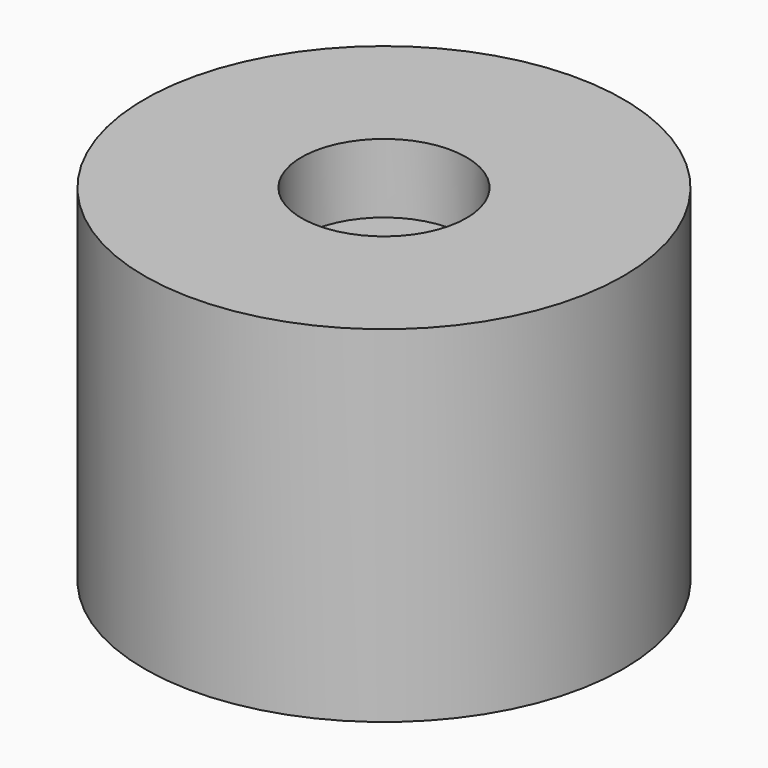
from build123d import *

# Parameters (mm, degrees)
SKETCH136_R     = 9
PAD081_DEPTH    = 13
POCKET045_DEPTH = 8
SKETCH138_R     = 3.1
POCKET046_DEPTH = 2.6
SKETCH139_R     = 1.75
POCKET047_DEPTH = 9.001


with BuildPart() as part:
    # Sketch136 → Pad081 (new body)
    with BuildSketch(Plane.XY):
        Circle(SKETCH136_R)
    extrude(amount=PAD081_DEPTH)

    # Sketch137 → Pocket045 (cut)
    with BuildSketch(Plane.XY):
        with BuildLine():
            Line((-3.152776, 2.850001), (-6.25, 2.850001))
            Line((-6.25, 2.850001), (-6.25, -2.850001))
            Line((-6.25, -2.850001), (-3.152776, -2.850001))
            ThreePointArc((-3.152776, -2.850001), (4.25, 0), (-3.152776, 2.850001))
        make_face()
    extrude(amount=POCKET045_DEPTH, mode=Mode.SUBTRACT)

    # Sketch138 → Pocket046 (cut)
    with BuildSketch(Plane.XY.offset(13)):
        Circle(SKETCH138_R)
    extrude(amount=-POCKET046_DEPTH, mode=Mode.SUBTRACT)

    # Sketch139 → Pocket047 (cut, through all)
    with BuildSketch(Plane.YZ):
        with Locations((0, 4)):
            Circle(SKETCH139_R)
    extrude(amount=-POCKET047_DEPTH, mode=Mode.SUBTRACT)


solid = part.part
